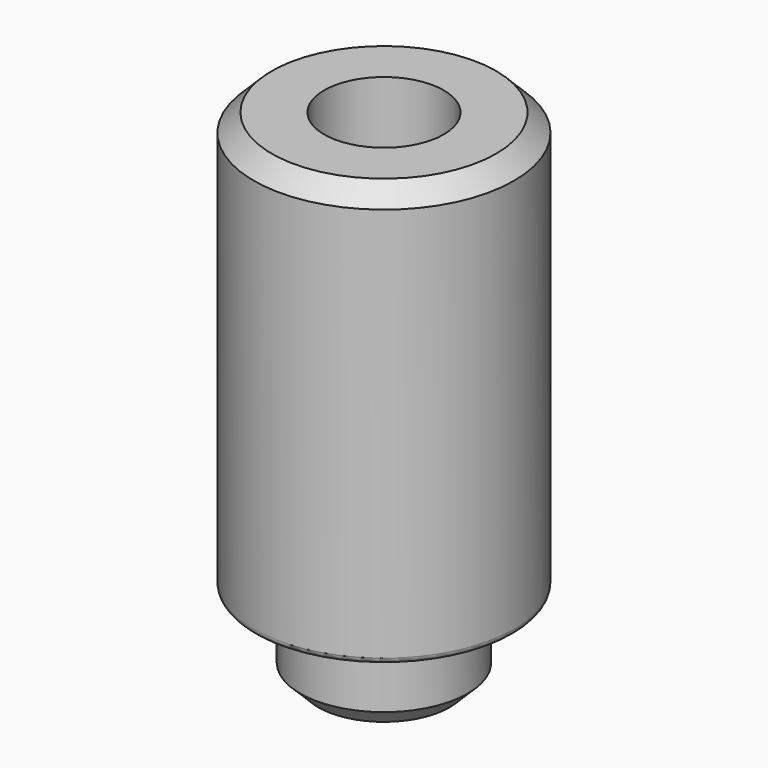
from build123d import *

# Parameters (mm, degrees)
SKETCH_R        = 2.175
PAD_DEPTH       = 7
SKETCH001_R     = 1.4
PAD001_DEPTH    = 1.4
SKETCH002_R     = 1
POCKET_DEPTH    = 8.401
CHAMFER_SIZE    = 0.3
CHAMFER001_SIZE = 0.3
FILLET_R        = 0.1


with BuildPart() as part:
    # Sketch → Pad (new body)
    with BuildSketch(Plane.XY):
        Circle(SKETCH_R)
    extrude(amount=PAD_DEPTH)

    # Sketch001 (on Face2 of Pad) → Pad001 (join)
    with BuildSketch(Plane(origin=(0, 0, 0), x_dir=(1, 0, 0), z_dir=(0, 0, -1))):
        Circle(SKETCH001_R)
    extrude(amount=PAD001_DEPTH)

    # Sketch002 (on Face5 of Pad001) → Pocket (cut, through all)
    with BuildSketch(Plane(origin=(0, 0, -1.4), x_dir=(1, 0, 0), z_dir=(0, 0, -1))):
        Circle(SKETCH002_R)
    extrude(amount=-POCKET_DEPTH, mode=Mode.SUBTRACT)

    # Chamfer
    chamfer_edges = [part.edges().sort_by_distance(p)[0] for p in [
        (-1.4, 0, -1.4),
    ]]
    chamfer(chamfer_edges, length=CHAMFER_SIZE)

    # Chamfer001
    chamfer001_edges = [part.edges().sort_by_distance(p)[0] for p in [
        (-2.175, 0, 7),
    ]]
    chamfer(chamfer001_edges, length=CHAMFER001_SIZE)

    # Fillet
    fillet_edges = [part.edges().sort_by_distance(p)[0] for p in [
        (-2.175, 0, 0),
    ]]
    fillet(fillet_edges, radius=FILLET_R)


solid = part.part
